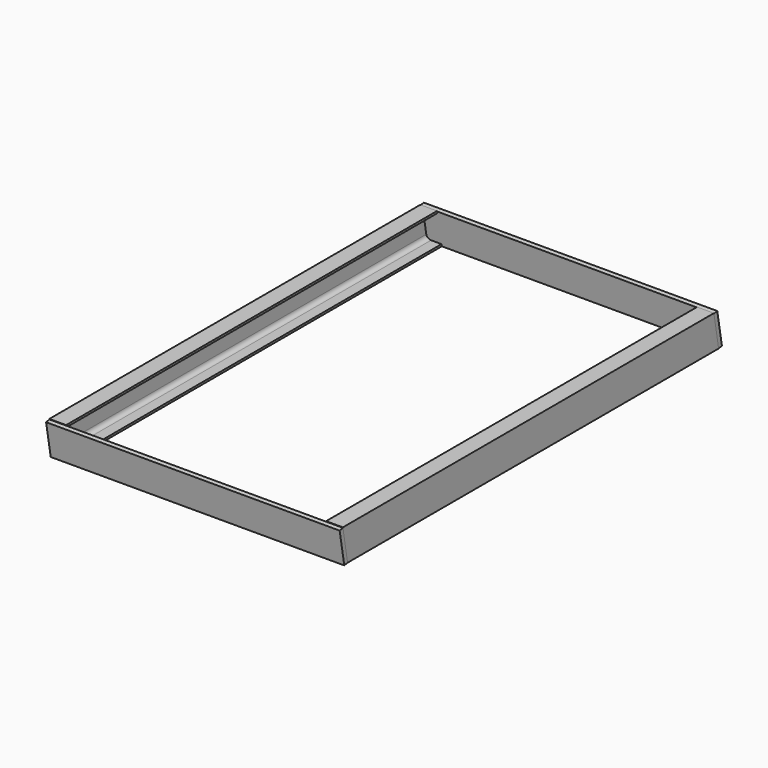
from build123d import *

# Parameters (mm, degrees)
F1_DEPTH = 711.2
F3_DEPTH = 444.501
F5_DEPTH = 444.5


with BuildPart() as f1:
    # F0 (on Front) → F1 (new body)
    with BuildSketch(Plane.XZ):
        with BuildLine():
            Line((0, 50.8), (0, 0))
            Line((0, 0), (25.4, 0))
            Line((25.4, 0), (25.4, 3.175))
            Line((25.4, 3.175), (9.525, 3.175))
            ThreePointArc((9.525, 3.175), (5.034872, 5.034872), (3.175, 9.525))
            Line((3.175, 9.525), (3.175, 41.275))
            ThreePointArc((3.175, 41.275), (5.034872, 45.765128), (9.525, 47.625))
            Line((9.525, 47.625), (25.4, 47.625))
            Line((25.4, 47.625), (25.4, 50.8))
            Line((25.4, 50.8), (0, 50.8))
        make_face()
        with BuildLine():
            Line((419.1, 3.175), (419.1, 0))
            Line((419.1, 0), (444.5, 0))
            Line((444.5, 0), (444.5, 50.8))
            Line((444.5, 50.8), (419.1, 50.8))
            Line((419.1, 50.8), (419.1, 47.625))
            Line((419.1, 47.625), (434.975, 47.625))
            ThreePointArc((434.975, 47.625), (439.465128, 45.765128), (441.325, 41.275))
            Line((441.325, 41.275), (441.325, 9.525))
            ThreePointArc((441.325, 9.525), (439.465128, 5.034872), (434.975, 3.175))
            Line((434.975, 3.175), (419.1, 3.175))
        make_face()
    extrude(amount=F1_DEPTH)

    # F2 (on Right) → F3 (cut, through all)
    with BuildSketch(Plane.YZ):
        Polygon((-8.957411, 50.8), (0, 0), (0, 50.8), align=None)
        Polygon((-711.2, 0), (-702.242589, 0), (-711.2, 50.8), align=None)
    extrude(amount=F3_DEPTH, mode=Mode.SUBTRACT)


with BuildPart() as f5:
    # F4 (on Right) → F5 (new body)
    with BuildSketch(Plane.YZ):
        Polygon((-708.494949, -1.102666), (-702.24142, 0), (-711.062747, 50.028234), (-717.316277, 48.925568), align=None)
        Polygon((-8.821327, 50.028234), (0, 0), (6.253529, 1.102666), (-2.567798, 51.1309), align=None)
    extrude(amount=F5_DEPTH)


solid = Compound([f1.part, f5.part])
